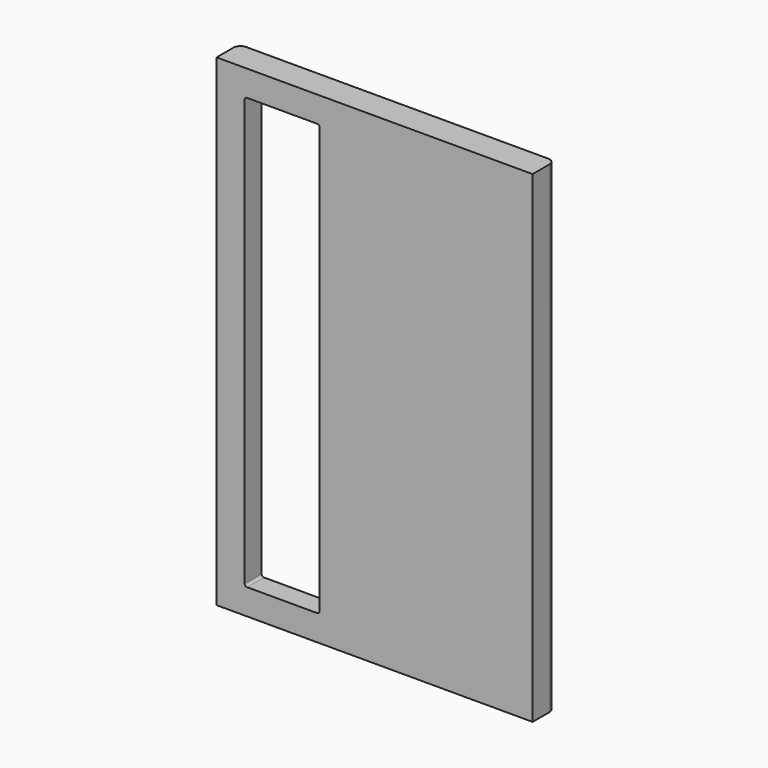
from build123d import *

# Parameters (mm, degrees)
F0_W     = 135
F0_H     = 206
F1_DEPTH = 12
F2_DEPTH = 3
F3_R     = 3


with BuildPart() as f1:
    # F0 (on Front) → F1 (new body)
    with BuildSketch(Plane.XZ):
        Rectangle(F0_W, F0_H)
        with BuildLine():
            ThreePointArc((-17.2, 99), (-16.492893, 98.707107), (-16.2, 98))
            Line((-16.2, 98), (-16.2, -98))
            ThreePointArc((-16.2, -98), (-16.492893, -98.707107), (-17.2, -99))
            Line((-17.2, -99), (-62.2, -99))
            ThreePointArc((-62.2, -99), (-62.907107, -98.707107), (-63.2, -98))
            Line((-63.2, -98), (-63.2, 98))
            ThreePointArc((-63.2, 98), (-62.907107, 98.707107), (-62.2, 99))
            Line((-62.2, 99), (-17.2, 99))
        make_face(mode=Mode.SUBTRACT)
        with BuildLine():
            Line((-16.2, -98), (-16.2, 98))
            ThreePointArc((-16.2, 98), (-16.492893, 98.707107), (-17.2, 99))
            Line((-17.2, 99), (-62.2, 99))
            ThreePointArc((-62.2, 99), (-62.907107, 98.707107), (-63.2, 98))
            Line((-63.2, 98), (-63.2, -98))
            ThreePointArc((-63.2, -98), (-62.907107, -98.707107), (-62.2, -99))
            Line((-62.2, -99), (-17.2, -99))
            ThreePointArc((-17.2, -99), (-16.492893, -98.707107), (-16.2, -98))
        make_face()
        with BuildLine():
            ThreePointArc((-55.5, 91), (-55.207107, 91.707107), (-54.5, 92))
            Line((-54.5, 92), (-24.5, 92))
            ThreePointArc((-24.5, 92), (-23.792893, 91.707107), (-23.5, 91))
            Line((-23.5, 91), (-23.5, -91))
            ThreePointArc((-23.5, -91), (-23.792893, -91.707107), (-24.5, -92))
            Line((-24.5, -92), (-54.5, -92))
            ThreePointArc((-54.5, -92), (-55.207107, -91.707107), (-55.5, -91))
            Line((-55.5, -91), (-55.5, 91))
        make_face(mode=Mode.SUBTRACT)
    extrude(amount=F1_DEPTH)

    # F0 (on Front) → F2 (cut)
    with BuildSketch(Plane.XZ):
        with BuildLine():
            Line((-16.2, -98), (-16.2, 98))
            ThreePointArc((-16.2, 98), (-16.492893, 98.707107), (-17.2, 99))
            Line((-17.2, 99), (-62.2, 99))
            ThreePointArc((-62.2, 99), (-62.907107, 98.707107), (-63.2, 98))
            Line((-63.2, 98), (-63.2, -98))
            ThreePointArc((-63.2, -98), (-62.907107, -98.707107), (-62.2, -99))
            Line((-62.2, -99), (-17.2, -99))
            ThreePointArc((-17.2, -99), (-16.492893, -98.707107), (-16.2, -98))
        make_face()
        with BuildLine():
            ThreePointArc((-55.5, 91), (-55.207107, 91.707107), (-54.5, 92))
            Line((-54.5, 92), (-24.5, 92))
            ThreePointArc((-24.5, 92), (-23.792893, 91.707107), (-23.5, 91))
            Line((-23.5, 91), (-23.5, -91))
            ThreePointArc((-23.5, -91), (-23.792893, -91.707107), (-24.5, -92))
            Line((-24.5, -92), (-54.5, -92))
            ThreePointArc((-54.5, -92), (-55.207107, -91.707107), (-55.5, -91))
            Line((-55.5, -91), (-55.5, 91))
        make_face(mode=Mode.SUBTRACT)
    extrude(amount=F2_DEPTH, mode=Mode.SUBTRACT)

    # F3
    f3_edges = [f1.edges().sort_by_distance(p)[0] for p in [
        (67.5, 0, 0),
        (-67.5, 0, 0),
    ]]
    fillet(f3_edges, radius=F3_R)


solid = f1.part
